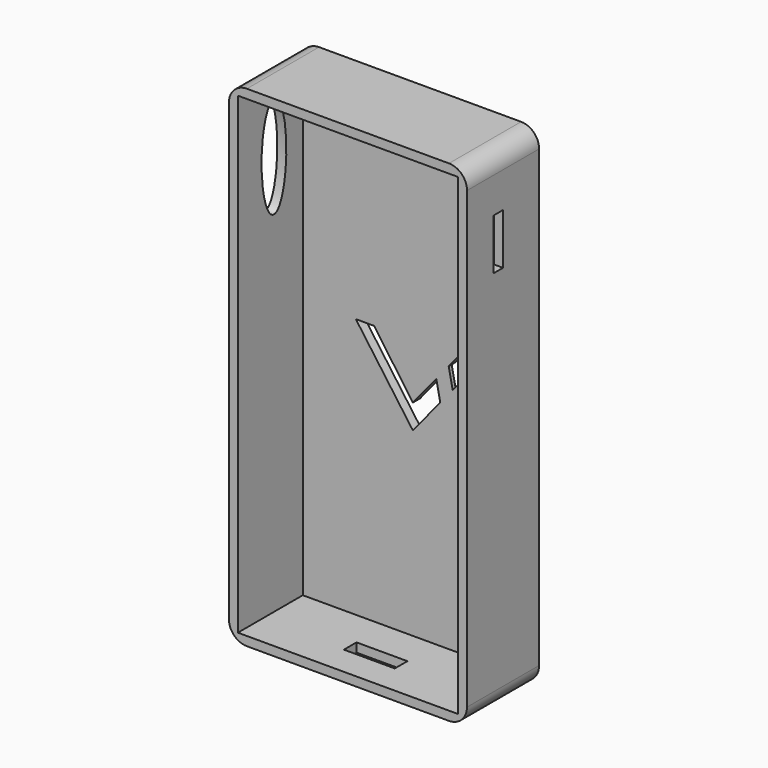
from build123d import *

# Parameters (mm, degrees)
F0_W      = 67.1
F0_H      = 138.3
F1_DEPTH  = 12.7
F2_T      = -2.54
F3_R      = 5.08
F4_W      = 23.2377038337
F4_H      = 8.8934414089
F5_DEPTH  = 12.5
F6_W      = 14.3442638218
F6_H      = 4.4467216358
F7_DEPTH  = 35
F9_DEPTH  = 27.5
F10_W     = 3.4426231869
F10_H     = 14.3442638218
F11_DEPTH = 27.5
F13_DEPTH = 1.5
F15_DEPTH = 27.5


with BuildPart() as f1:
    # F0 (on Front) → F1 (new body, symmetric)
    with BuildSketch(Plane.XZ):
        Rectangle(F0_W, F0_H)
    extrude(amount=F1_DEPTH, both=True)

    # F2
    f2_openings = [f1.faces().sort_by_distance(p)[0] for p in [
        (0, -12.7, 0),
    ]]
    offset(amount=F2_T, openings=f2_openings)

    # F3
    f3_edges = [f1.edges().sort_by_distance(p)[0] for p in [
        (33.55, 0, 69.15),
        (33.55, 0, -69.15),
        (-33.55, 0, 69.15),
        (-33.55, 0, -69.15),
    ]]
    fillet(f3_edges, radius=F3_R)

    # F4 (on face) → F5 (cut, symmetric)
    with BuildSketch(Plane.XZ.offset(-10.16)):
        with Locations((15.061476035, 59.0983647853)):
            Rectangle(F4_W, F4_H)
    extrude(amount=F5_DEPTH, both=True, mode=Mode.SUBTRACT)

    # F6 (on face) → F7 (cut, symmetric)
    with BuildSketch(Plane(origin=(0, 0, -69.15), x_dir=(1, 0, 0), z_dir=(0, 0, -1))):
        with Locations((-0.5737706088, 2.2233608179)):
            Rectangle(F6_W, F6_H)
    extrude(amount=F7_DEPTH, both=True, mode=Mode.SUBTRACT)

    # F8 (on face) → F9 (cut, symmetric)
    with BuildSketch(Plane(origin=(-33.55, 0, 0), x_dir=(0, -1, 0), z_dir=(-1, 0, 0))):
        with BuildLine():
            add(Edge.make_bspline(
                [(0, 60.676228255), (-7.550774062, 60.676228255), (-3.775387031, 39.1598381102), (0, 17.6434479654), (3.775387031, 39.1598381102), (7.550774062, 60.676228255), (0, 60.676228255)],
                knots=[0, 0, 0, 2.0943951024, 2.0943951024, 4.1887902048, 4.1887902048, 6.2831853072, 6.2831853072, 6.2831853072], degree=2, weights=[1, 0.5, 1, 0.5, 1, 0.5, 1]))
        make_face()
    extrude(amount=F9_DEPTH, both=True, mode=Mode.SUBTRACT)

    # F10 (on face) → F11 (cut, symmetric)
    with BuildSketch(Plane.YZ.offset(33.55)):
        with Locations((-1.7213115934, 46.9057392329)):
            Rectangle(F10_W, F10_H)
    extrude(amount=F11_DEPTH, both=True, mode=Mode.SUBTRACT)

    # F12 (on face) → F13 (cut, symmetric)
    with BuildSketch(Plane(origin=(0, 12.7, 0), x_dir=(-1, 0, 0), z_dir=(0, 1, 0))):
        Polygon((-5.2382490833, 6.1278682367), (-9.4672134146, 6.7418036051), (-15.491804108, -23.0942647904), (4.0163947269, -23.0942647904), (4.0163947269, -19.0778691322), (-10.3278690949, -19.0778691322), align=None)
    extrude(amount=F13_DEPTH, both=True, mode=Mode.SUBTRACT)

    # F14 (on face) → F15 (cut, symmetric)
    with BuildSketch(Plane(origin=(0, 12.7, 0), x_dir=(-1, 0, 0), z_dir=(0, 1, 0))):
        Polygon((-12.711224328, 6.7418036051), (-18.3606576174, 6.7418036051), (-11.2235988457, -1.9564862073), (-10.1078801099, 3.5689780455), align=None)
        Polygon((-6.6146179771, -0.6884349019), (-7.730336713, -6.2138991547), (0, -15.635246411), (16.0655751824, 6.7418036051), (10.901639238, 6.7418036051), (0, -8.7500000373), align=None)
    extrude(amount=F15_DEPTH, both=True, mode=Mode.SUBTRACT)


solid = f1.part
